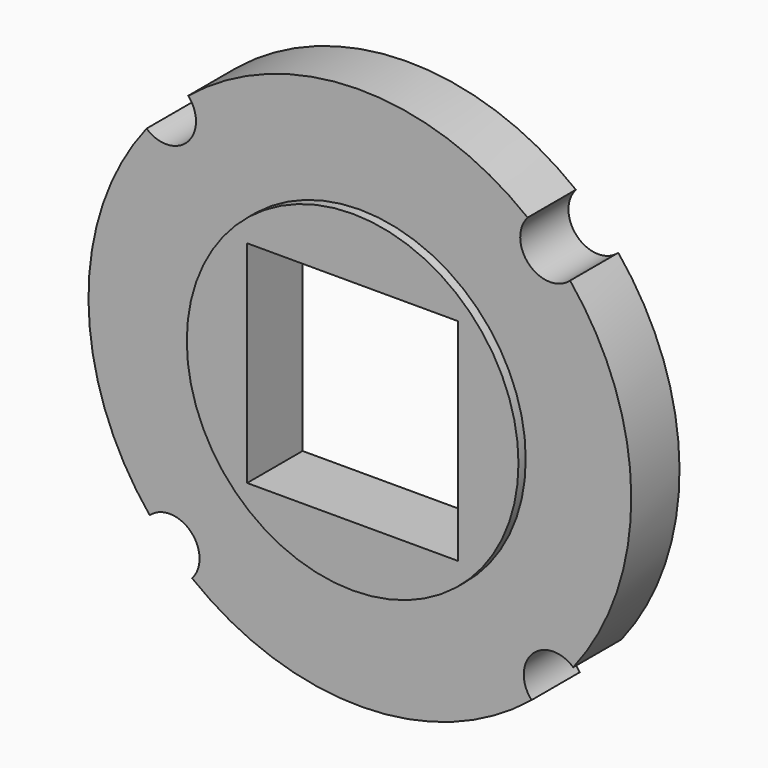
from build123d import *

# Parameters (mm, degrees)
F0_R     = 5.5
F1_DEPTH = 2
F0_W     = 7
F0_H     = 7
F2_DEPTH = 2.3


with BuildPart() as f1:
    # F0 (on Front) → F1 (new body)
    with BuildSketch(Plane.XZ):
        with BuildLine():
            ThreePointArc((-5.692584, 6.970975), (-5.717375, 5.613185), (-7.074479, 5.56343))
            ThreePointArc((-7.074479, 5.56343), (-8.99962, -0.082756), (-6.970975, -5.692584))
            ThreePointArc((-6.970975, -5.692584), (-5.613185, -5.717375), (-5.56343, -7.074479))
            ThreePointArc((-5.56343, -7.074479), (0.082756, -8.99962), (5.692584, -6.970975))
            ThreePointArc((5.692584, -6.970975), (5.717375, -5.613185), (7.074479, -5.56343))
            ThreePointArc((7.074479, -5.56343), (8.99962, 0.082756), (6.970975, 5.692584))
            ThreePointArc((6.970975, 5.692584), (5.613185, 5.717375), (5.56343, 7.074479))
            ThreePointArc((5.56343, 7.074479), (-0.082756, 8.99962), (-5.692584, 6.970975))
        make_face()
        Circle(F0_R, mode=Mode.SUBTRACT)
    extrude(amount=F1_DEPTH)

    # F0 (on Front) → F2 (join)
    with BuildSketch(Plane.XZ):
        Circle(F0_R)
        Rectangle(F0_W, F0_H, mode=Mode.SUBTRACT)
    extrude(amount=F2_DEPTH)


solid = f1.part
